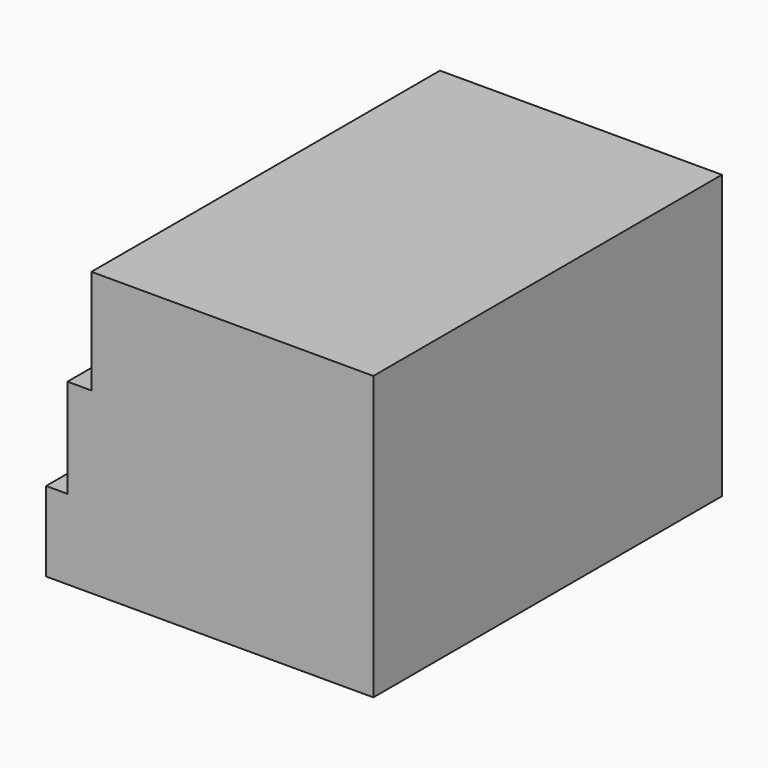
from build123d import *

# Parameters (mm, degrees)
F1_DEPTH = 25.4
F2_DEPTH = 25.4


with BuildPart() as f1:
    # F0 (on Front) → F1 (new body)
    with BuildSketch(Plane.XZ):
        Polygon((51.9276708364, 32.9955678842), (19.05, 32.9955678842), (19.05, 20.812753588), (16.2640828639, 20.812753588), (16.2640828639, 9.2959087342), (13.7671502117, 9.2959087342), (13.7671502117, 0), (51.9276708364, 0), align=None)
    extrude(amount=F1_DEPTH)

    # F0 (on Front) + F1_face (on face) → F2 (join)
    with BuildSketch(Plane.XZ):
        Polygon((19.05, 32.9955678842), (0, 0), (13.7671502117, 0), (13.7671502117, 9.2959087342), (16.2640828639, 9.2959087342), (16.2640828639, 20.812753588), (19.05, 20.812753588), align=None)
        Polygon((51.9276708364, 32.9955678842), (19.05, 32.9955678842), (19.05, 20.812753588), (16.2640828639, 20.812753588), (16.2640828639, 9.2959087342), (13.7671502117, 9.2959087342), (13.7671502117, 0), (51.9276708364, 0), align=None)
    with BuildSketch(Plane(origin=(34.1945571496, 0, 15.9589854534), x_dir=(1, 0, 0), z_dir=(0, 1, 0))):
        Polygon((-15.1445571496, -17.0365824308), (17.7331136869, -17.0365824308), (17.7331136869, 15.9589854534), (-20.4274069378, 15.9589854534), (-20.4274069378, 6.6630767192), (-17.9304742856, 6.6630767192), (-17.9304742856, -4.8537681345), (-15.1445571496, -4.8537681345), align=None)
    extrude(amount=-F2_DEPTH, dir=(0, -1, 0))


solid = f1.part
